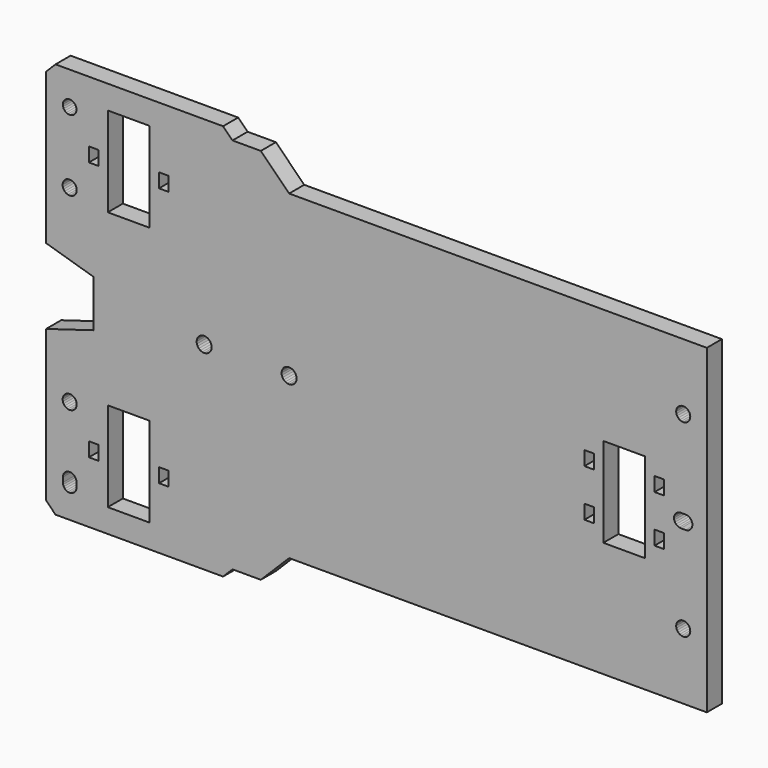
from build123d import *

# Parameters (mm, degrees)
F0_W     = 2
F0_H     = 3
F0_W_2   = 8.857651
F0_H_2   = 19
F0_W_3   = 6
F0_H_3   = 6
F1_DEPTH = 4


with BuildPart() as f1:
    # F0 (on Front) → F1 (new body)
    with BuildSketch(Plane.XZ):
        Polygon((-68, 42), (-70, 40), (-70, 8), (-60, 5), (-60, -5), (-70, -8), (-70, -40), (-68, -42), (-32.5002, -42), (-30.5002, -40), (-24.5002, -40), (-18.5002, -34), (70, -34), (70, 34), (-18.5002, 34), (-24.5002, 40), (-30.5002, 40), (-32.5002, 42), align=None)
        Polygon((-65.375289, -33.099405), (-65.000001, -33.049998), (-64.624713, -33.099405), (-64.275001, -33.244261), (-63.974696, -33.474693), (-63.744264, -33.774998), (-63.599409, -34.12471), (-63.550001, -34.499998), (-63.550001, -35.499998), (-63.599409, -35.875285), (-63.744264, -36.224998), (-63.974696, -36.525302), (-64.275001, -36.755734), (-64.624713, -36.90059), (-65.000001, -36.949998), (-65.375289, -36.90059), (-65.725001, -36.755734), (-66.025306, -36.525302), (-66.255738, -36.224998), (-66.400594, -35.875285), (-66.450001, -35.499998), (-66.450001, -34.499998), (-66.400594, -34.12471), (-66.255738, -33.774998), (-66.025306, -33.474693), (-65.725001, -33.244261), align=None, mode=Mode.SUBTRACT)
        with Locations((-59.929184, -27.5)):
            Rectangle(F0_W, F0_H, mode=Mode.SUBTRACT)
        with Locations((-52.500358, -27.5)):
            Rectangle(F0_W_2, F0_H_2, mode=Mode.SUBTRACT)
        with Locations((-45.071533, -27.5)):
            Rectangle(F0_W, F0_H, mode=Mode.SUBTRACT)
        Polygon((-66.448889, -19.611771), (-66.299038, -19.25), (-66.06066, -18.939339), (-65.75, -18.700962), (-65.388229, -18.551111), (-65, -18.5), (-64.611771, -18.551111), (-64.25, -18.700962), (-63.93934, -18.939339), (-63.700962, -19.25), (-63.551111, -19.611771), (-63.5, -20), (-63.551111, -20.388228), (-63.700962, -20.75), (-63.93934, -21.06066), (-64.25, -21.299038), (-64.611771, -21.448888), (-65, -21.5), (-65.388229, -21.448888), (-65.75, -21.299038), (-66.06066, -21.06066), (-66.299038, -20.75), (-66.448889, -20.388228), (-66.5, -20), align=None, mode=Mode.SUBTRACT)
        with Locations((-27.5002, -21)):
            Rectangle(F0_W_3, F0_H_3, mode=Mode.SUBTRACT)
        with Locations((-27.5002, -9)):
            Rectangle(F0_W_3, F0_H_3, mode=Mode.SUBTRACT)
        Polygon((65.750173, -21.299038), (65.388402, -21.448888), (65.000173, -21.5), (64.611945, -21.448888), (64.250173, -21.299038), (63.939513, -21.06066), (63.701135, -20.75), (63.551285, -20.388228), (63.500173, -20), (63.551285, -19.611771), (63.701135, -19.25), (63.939513, -18.939339), (64.250173, -18.700962), (64.611945, -18.551111), (65.000173, -18.5), (65.388402, -18.551111), (65.750173, -18.700962), (66.060834, -18.939339), (66.299212, -19.25), (66.449062, -19.611771), (66.500173, -20), (66.449062, -20.388228), (66.299212, -20.75), (66.060834, -21.06066), align=None, mode=Mode.SUBTRACT)
        with Locations((45.070816, -5)):
            Rectangle(F0_W, F0_H, mode=Mode.SUBTRACT)
        with Locations((59.928467, -5)):
            Rectangle(F0_W, F0_H, mode=Mode.SUBTRACT)
        Polygon((-35.709937, 1.386282), (-35.378566, 1.132012), (-35.124296, 0.800641), (-34.964455, 0.414752), (-34.909937, 0.000641), (-34.964455, -0.413469), (-35.124296, -0.799359), (-35.378566, -1.13073), (-35.709937, -1.384999), (-36.095826, -1.54484), (-36.509937, -1.599359), (-36.924047, -1.54484), (-37.309937, -1.384999), (-37.641307, -1.13073), (-37.895577, -0.799359), (-38.055418, -0.413469), (-38.109937, 0.000641), (-38.055418, 0.414752), (-37.895577, 0.800641), (-37.641307, 1.132012), (-37.309937, 1.386282), (-36.924047, 1.546122), (-36.509937, 1.600641), (-36.095826, 1.546122), align=None, mode=Mode.SUBTRACT)
        Polygon((-63.551111, 19.611772), (-63.700962, 19.25), (-63.93934, 18.93934), (-64.25, 18.700962), (-64.611771, 18.551112), (-65, 18.5), (-65.388229, 18.551112), (-65.75, 18.700962), (-66.06066, 18.93934), (-66.299038, 19.25), (-66.448889, 19.611772), (-66.5, 20), (-66.448889, 20.388229), (-66.299038, 20.75), (-66.06066, 21.060661), (-65.75, 21.299038), (-65.388229, 21.448889), (-65, 21.5), (-64.611771, 21.448889), (-64.25, 21.299038), (-63.93934, 21.060661), (-63.700962, 20.75), (-63.551111, 20.388229), (-63.5, 20), align=None, mode=Mode.SUBTRACT)
        Polygon((-20.109937, 0.000641), (-20.055418, 0.414752), (-19.895578, 0.800641), (-19.641308, 1.132012), (-19.309937, 1.386282), (-18.924047, 1.546123), (-18.509937, 1.600641), (-18.095827, 1.546123), (-17.709937, 1.386282), (-17.378566, 1.132012), (-17.124296, 0.800641), (-16.964456, 0.414752), (-16.909937, 0.000641), (-16.964456, -0.413469), (-17.124296, -0.799359), (-17.378566, -1.130729), (-17.709937, -1.384999), (-18.095827, -1.54484), (-18.509937, -1.599359), (-18.924047, -1.54484), (-19.309937, -1.384999), (-19.641308, -1.130729), (-19.895578, -0.799359), (-20.055418, -0.413469), align=None, mode=Mode.SUBTRACT)
        with Locations((-27.5002, 9)):
            Rectangle(F0_W_3, F0_H_3, mode=Mode.SUBTRACT)
        with Locations((-59.929184, 27.5)):
            Rectangle(F0_W, F0_H, mode=Mode.SUBTRACT)
        with Locations((-52.500358, 27.5)):
            Rectangle(F0_W_2, F0_H_2, mode=Mode.SUBTRACT)
        with Locations((-45.071533, 27.5)):
            Rectangle(F0_W, F0_H, mode=Mode.SUBTRACT)
        Polygon((-66.025305, 36.025307), (-65.725, 36.255739), (-65.375288, 36.400595), (-65, 36.450002), (-64.624712, 36.400595), (-64.275, 36.255739), (-63.974695, 36.025307), (-63.744263, 35.725002), (-63.599408, 35.37529), (-63.55, 35.000002), (-63.599408, 34.624715), (-63.744263, 34.275002), (-63.974695, 33.974698), (-64.275, 33.744266), (-64.624712, 33.59941), (-65, 33.550002), (-65.375288, 33.59941), (-65.725, 33.744266), (-66.025305, 33.974698), (-66.255737, 34.275002), (-66.400592, 34.624715), (-66.45, 35.000002), (-66.400592, 35.37529), (-66.255737, 35.725002), align=None, mode=Mode.SUBTRACT)
        with Locations((-27.5002, 21)):
            Rectangle(F0_W_3, F0_H_3, mode=Mode.SUBTRACT)
        with Locations((52.499641, 0)):
            Rectangle(F0_W_2, F0_H_2, mode=Mode.SUBTRACT)
        with Locations((45.070816, 5)):
            Rectangle(F0_W, F0_H, mode=Mode.SUBTRACT)
        with Locations((59.928467, 5)):
            Rectangle(F0_W, F0_H, mode=Mode.SUBTRACT)
        Polygon((64.124712, -1.400592), (63.774999, -1.255736), (63.474695, -1.025304), (63.244263, -0.725), (63.099407, -0.375287), (63.049999, 0), (63.099407, 0.375288), (63.244263, 0.725), (63.474695, 1.025305), (63.774999, 1.255737), (64.124712, 1.400593), (64.499999, 1.45), (65.499999, 1.45), (65.875287, 1.400593), (66.224999, 1.255737), (66.525304, 1.025305), (66.755736, 0.725), (66.900592, 0.375288), (66.949999, 0), (66.900592, -0.375287), (66.755736, -0.725), (66.525304, -1.025304), (66.224999, -1.255736), (65.875287, -1.400592), (65.499999, -1.45), (64.499999, -1.45), align=None, mode=Mode.SUBTRACT)
        Polygon((63.551285, 20.388229), (63.701135, 20.75), (63.939513, 21.060661), (64.250173, 21.299038), (64.611945, 21.448889), (65.000173, 21.5), (65.388402, 21.448889), (65.750173, 21.299038), (66.060834, 21.060661), (66.299212, 20.75), (66.449062, 20.388229), (66.500173, 20), (66.449062, 19.611772), (66.299212, 19.25), (66.060834, 18.93934), (65.750173, 18.700962), (65.388402, 18.551112), (65.000173, 18.5), (64.611945, 18.551112), (64.250173, 18.700962), (63.939513, 18.93934), (63.701135, 19.25), (63.551285, 19.611772), (63.500173, 20), align=None, mode=Mode.SUBTRACT)
        with Locations((-27.5002, 21)):
            Rectangle(F0_W_3, F0_H_3)
        with Locations((-27.5002, 9)):
            Rectangle(F0_W_3, F0_H_3)
        with Locations((-27.5002, -9)):
            Rectangle(F0_W_3, F0_H_3)
        with Locations((-27.5002, -21)):
            Rectangle(F0_W_3, F0_H_3)
    extrude(amount=F1_DEPTH)


solid = f1.part
